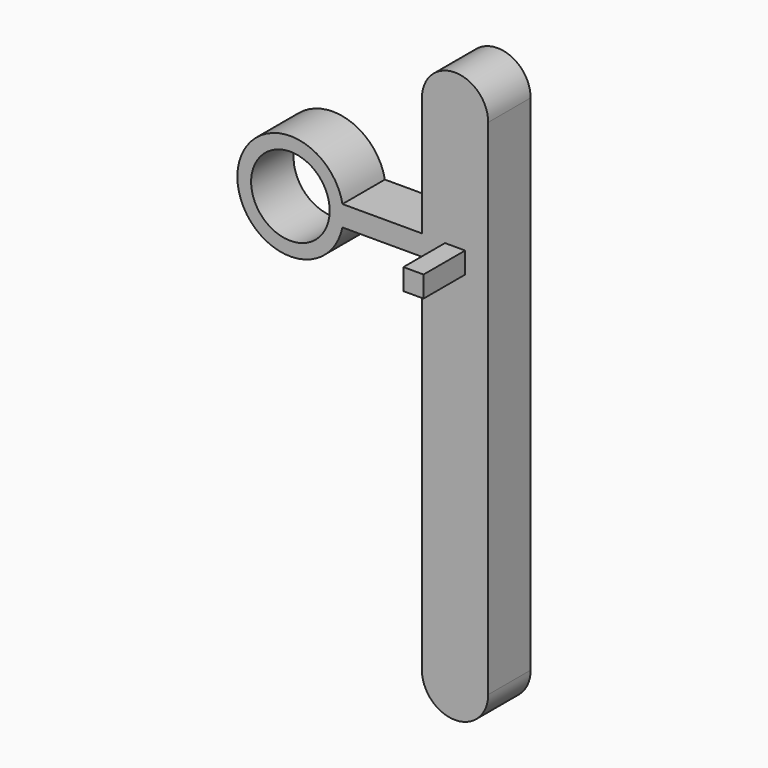
from build123d import *

# Parameters (mm, degrees)
F0_W     = 2.413
F0_H     = 2.54
F0_R     = 4.7018325436
F1_DEPTH = 3.175
F2_DEPTH = 9.398
F3_DEPTH = 3.175


with BuildPart() as f1:
    # F0 (on Front) → F1 (new body, symmetric)
    with BuildSketch(Plane.XZ):
        Polygon((3.96875, -30.1625), (3.96875, 30.1625), (-3.96875, 30.1625), (-3.96875, 15.875), (-3.96875, 13.4112), (-3.96875, -30.1625), align=None)
        with Locations((0, 14.4846439362)):
            Rectangle(F0_W, F0_H, mode=Mode.SUBTRACT)
        with BuildLine():
            Line((-3.96875, 30.1625), (3.96875, 30.1625))
            ThreePointArc((3.96875, 30.1625), (0, 34.13125), (-3.96875, 30.1625))
        make_face()
        with BuildLine():
            ThreePointArc((-3.96875, -30.1625), (0, -34.13125), (3.96875, -30.1625))
            Line((3.96875, -30.1625), (-3.96875, -30.1625))
        make_face()
        with BuildLine():
            Line((-13.49375, 15.875), (-13.4827836254, 15.875))
            ThreePointArc((-13.4827836254, 15.875), (-26.0674995034, 14.699090169), (-13.49375, 13.4112))
            Line((-13.49375, 13.4112), (-13.49375, 15.875))
        make_face()
        with Locations((-19.7175624037, 14.6708265968)):
            Circle(F0_R, mode=Mode.SUBTRACT)
        with BuildLine():
            ThreePointArc((-13.3675624037, 14.6708265968), (-13.3964333415, 15.2756632514), (-13.4827836254, 15.875))
            Line((-13.4827836254, 15.875), (-13.49375, 15.875))
            Line((-13.49375, 15.875), (-13.49375, 13.4112))
            ThreePointArc((-13.49375, 13.4112), (-13.3991880573, 14.0378608645), (-13.3675624037, 14.6708265968))
        make_face()
        Polygon((3.96875, -30.1625), (3.96875, 30.1625), (-3.96875, 30.1625), (-3.96875, 15.875), (-3.96875, 13.4112), (-3.96875, -30.1625), align=None)
        with Locations((0, 14.4846439362)):
            Rectangle(F0_W, F0_H, mode=Mode.SUBTRACT)
        with BuildLine():
            Line((-3.96875, 13.4112), (-3.96875, 15.875))
            Line((-3.96875, 15.875), (-13.4827836254, 15.875))
            ThreePointArc((-13.4827836254, 15.875), (-13.3964333415, 15.2756632514), (-13.3675624037, 14.6708265968))
            ThreePointArc((-13.3675624037, 14.6708265968), (-13.3991880573, 14.0378608645), (-13.49375, 13.4112))
            Line((-13.49375, 13.4112), (-3.96875, 13.4112))
        make_face()
        with BuildLine():
            ThreePointArc((-13.3675624037, 14.6708265968), (-13.3964333415, 15.2756632514), (-13.4827836254, 15.875))
            Line((-13.4827836254, 15.875), (-13.49375, 15.875))
            Line((-13.49375, 15.875), (-13.49375, 13.4112))
            ThreePointArc((-13.49375, 13.4112), (-13.3991880573, 14.0378608645), (-13.3675624037, 14.6708265968))
        make_face()
        with BuildLine():
            Line((-13.49375, 15.875), (-13.4827836254, 15.875))
            ThreePointArc((-13.4827836254, 15.875), (-26.0674995034, 14.699090169), (-13.49375, 13.4112))
            Line((-13.49375, 13.4112), (-13.49375, 15.875))
        make_face()
        with Locations((-19.7175624037, 14.6708265968)):
            Circle(F0_R, mode=Mode.SUBTRACT)
        with BuildLine():
            Line((-3.96875, 13.4112), (-3.96875, 15.875))
            Line((-3.96875, 15.875), (-13.4827836254, 15.875))
            ThreePointArc((-13.4827836254, 15.875), (-13.3964333415, 15.2756632514), (-13.3675624037, 14.6708265968))
            ThreePointArc((-13.3675624037, 14.6708265968), (-13.3991880573, 14.0378608645), (-13.49375, 13.4112))
            Line((-13.49375, 13.4112), (-3.96875, 13.4112))
        make_face()
    extrude(amount=F1_DEPTH, both=True)

    # F0 (on Front) → F2 (join)
    with BuildSketch(Plane.XZ):
        with Locations((0, 14.4846439362)):
            Rectangle(F0_W, F0_H)
    extrude(amount=F2_DEPTH)

    # F0 (on Front) → F3 (join)
    with BuildSketch(Plane.XZ):
        with Locations((0, 14.4846439362)):
            Rectangle(F0_W, F0_H)
    extrude(amount=-F3_DEPTH)


solid = f1.part
